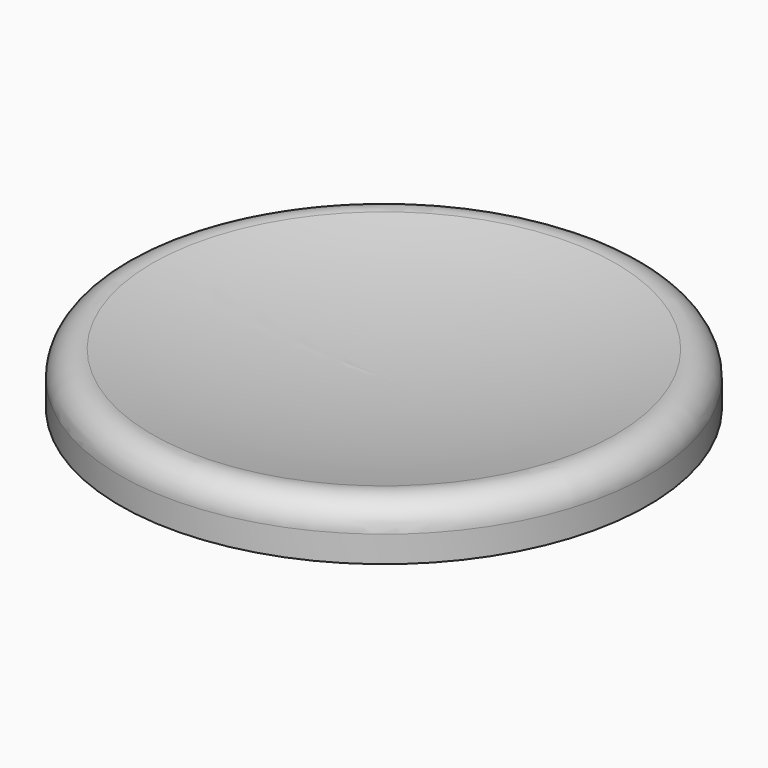
from build123d import *


with BuildPart() as f2:
    # F0 (on Front) → F2 (revolve)
    with BuildSketch(Plane.XZ):
        with BuildLine():
            Line((-2.5, 2), (-2.5, 0.25))
            Line((-2.5, 0.25), (0, 0.25))
            Line((0, 0.25), (0, 3.5))
            ThreePointArc((0, 3.5), (-4.417261, 3.744651), (-8.780488, 4.47561))
            ThreePointArc((-8.780488, 4.47561), (-9.624695, 4.280869), (-10, 3.5))
            Line((-10, 3.5), (-10, 2.5))
            Line((-10, 2.5), (-3.5, 2.5))
            Line((-3.5, 2.5), (-3.5, 2))
            Line((-3.5, 2), (-2.5, 2))
        make_face()
    revolve(axis=Axis((0, 0, 5.189829), (0, 0, 1)))


solid = f2.part
